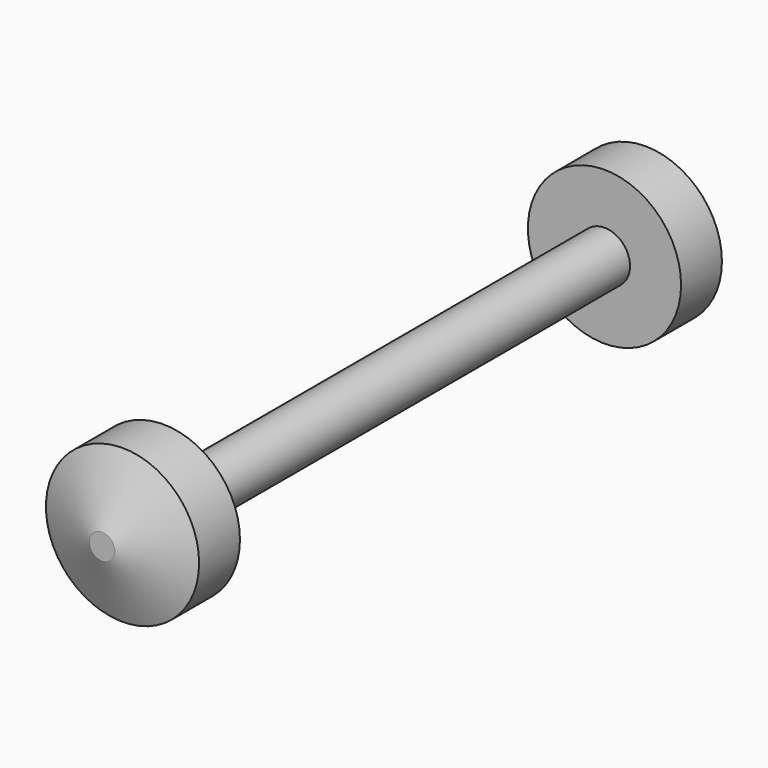
from build123d import *

# Parameters (mm, degrees)
F0_R      = 25
F1_DEPTH  = 270
F2_R      = 75
F3_DEPTH  = 50
F3_FACE_R = 75
F6_R      = 12.5
F9_R      = 12.5
F4_FACE_R = 75


with BuildPart() as f1:
    # F0 (on Front) → F1 (new body)
    with BuildSketch(Plane.XZ):
        Circle(F0_R)
    extrude(amount=F1_DEPTH)

    # F2 (on face) → F3 (join)
    with BuildSketch(Plane.XZ.offset(270)):
        Circle(F2_R)
    extrude(amount=F3_DEPTH)

    # F4: F1 across plane


with BuildPart() as f1_1:
    add(f1.part)
    add(f1.part.mirror(Plane.XZ))

    # F3_face (on face) → F7 section 0
    with BuildSketch(Plane.XZ.offset(320)):
        Circle(F3_FACE_R)
    # F6 (on offset) → F7 section 1
    with BuildSketch(Plane.XZ.offset(345)):
        Circle(F6_R)
    loft()

    # F9 (on offset) → F10 section 0
    with BuildSketch(Plane(origin=(0, 345, 0), x_dir=(-1, 0, 0), z_dir=(0, 1, 0))):
        Circle(F9_R)
    # F4_face (on face) → F10 section 1
    with BuildSketch(Plane(origin=(0, 320, 0), x_dir=(-1, 0, 0), z_dir=(0, 1, 0))):
        Circle(F4_FACE_R)
    loft()


solid = f1_1.part
